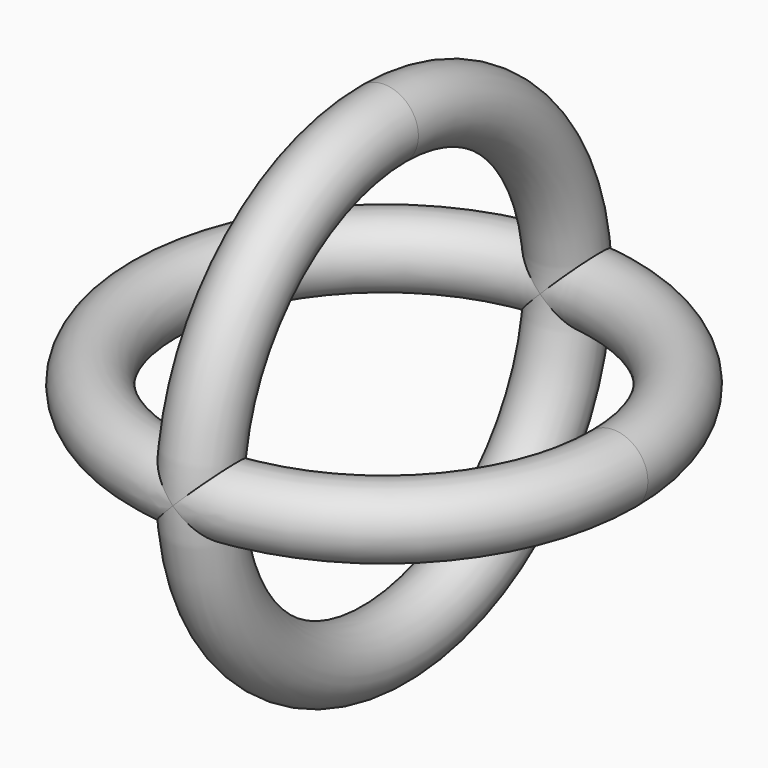
from build123d import *

# Parameters (mm, degrees)
F0_R = 1.5


with BuildPart() as f1:
    # F0 (on Front) → F1 (revolve)
    with BuildSketch(Plane.XZ):
        with Locations((0, 10)):
            Circle(F0_R)
    revolve(axis=Axis((5, 0, 0), (1, 0, 0)))

    # F0 (on Front) → F2 (revolve)
    with BuildSketch(Plane.XZ):
        with Locations((10, 0)):
            Circle(F0_R)
    revolve(axis=Axis((0, 0, 5), (0, 0, 1)))


solid = f1.part
